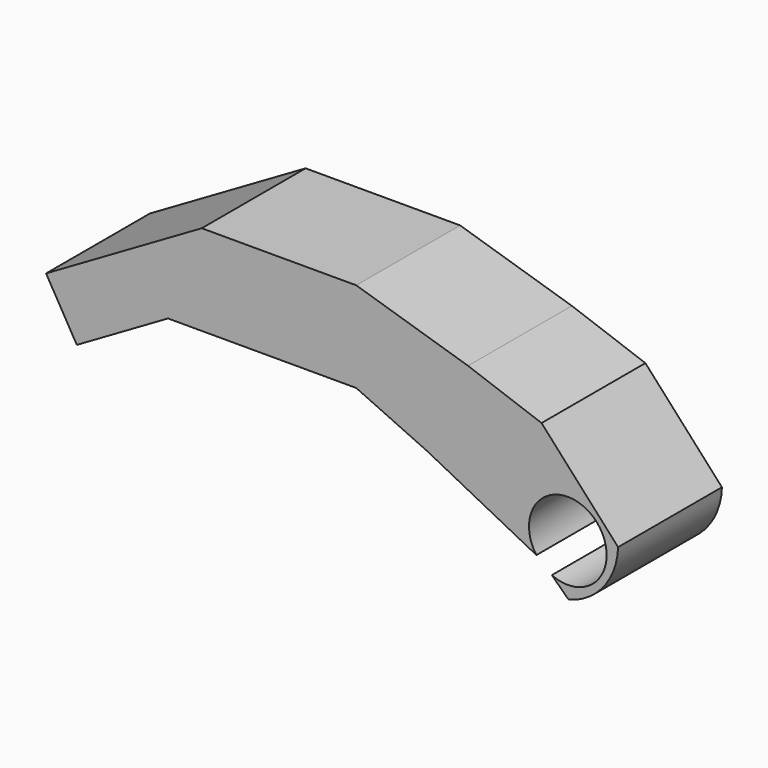
from build123d import *

# Parameters (mm, degrees)
F1_DEPTH = 12.7
F3_D     = 7.5946
F5_DEPTH = 25.4


with BuildPart() as f1:
    # F0 (on Front) → F1 (new body)
    with BuildSketch(Plane.XZ):
        Polygon((-18.419567, 0), (0, 0), (6.907339, -3.165863), (18.131765, -8.921978), (26.765935, -17.268345), (29.356185, -9.49759), (18.131765, 2.878058), (10.936619, 5.468309), (0, 8.845153), (-15.116255, 8.845153), (-30.349583, 0), (-27.34155, -5.180503), align=None)
    extrude(amount=F1_DEPTH)

    # F3 (through all)
    with Locations(Plane.XZ.offset(12.7)):
        with Locations((20.701887, -6.43437)):
            Hole(F3_D / 2)

    # F4 (on face) → F5 (cut)
    with BuildSketch(Plane.XZ.offset(12.7)):
        with BuildLine():
            ThreePointArc((25.619942, -5.378141), (24.214986, -9.235351), (20.777755, -11.47977))
            Line((20.777755, -11.47977), (26.765935, -17.268345))
            Line((26.765935, -17.268345), (29.356185, -9.49759))
            Line((29.356185, -9.49759), (25.619942, -5.378141))
        make_face()
    extrude(amount=-F5_DEPTH, mode=Mode.SUBTRACT)


solid = f1.part
